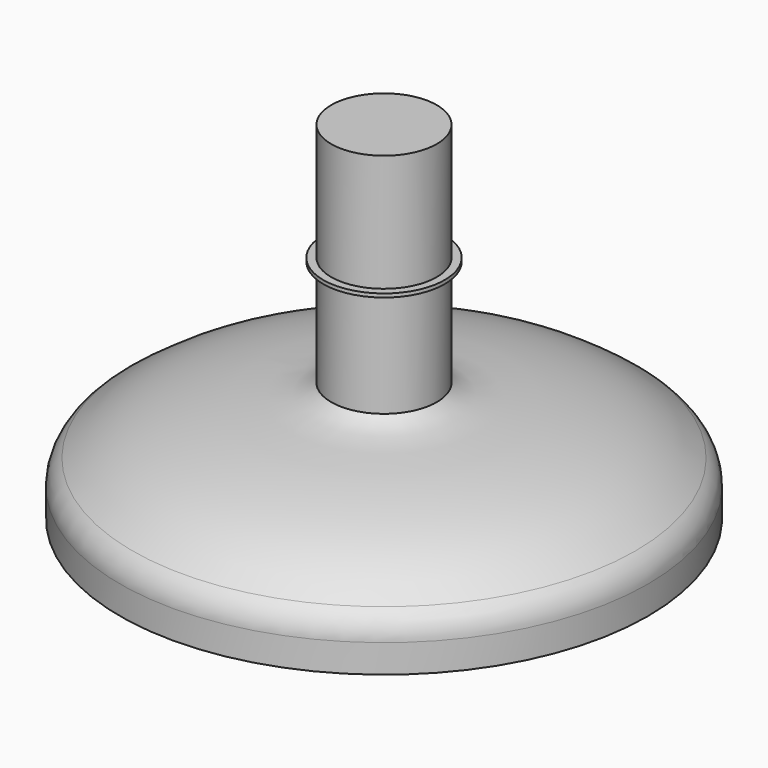
from build123d import *


with BuildPart() as f1:
    # F0 (on Front) → F1 (revolve)
    with BuildSketch(Plane.XZ):
        with BuildLine():
            Line((0, -17.3999276688), (0, 15.457372818))
            Line((0, 15.457372818), (-5, 15.457372818))
            Line((-5, 15.457372818), (-5, 4.3636227492))
            Line((-5, 4.3636227492), (-5.7480330579, 4.3636227492))
            Line((-5.7480330579, 4.3636227492), (-5.7480330579, 4.02151444))
            Line((-5.7480330579, 4.02151444), (-5, 4.02151444))
            Line((-5, 4.02151444), (-5, -6.0624405742))
            add(Edge.make_bspline(
                [(-23.8238037978, -12.343468626), (-22.5280684061, -11.351358841), (-18.9122048038, -8.9005514184), (-10.2028315843, -7.3167438176), (-6.1431308277, -7.1977279149), (-5, -6.0624405742)],
                knots=[0.0767983753, 0.0767983753, 0.0767983753, 0.0767983753, 0.3252388879, 0.7138418386, 1, 1, 1, 1], degree=3))
            ThreePointArc((-23.8238037978, -12.343468626), (-24.6899267084, -13.3971625347), (-25, -14.7254299412))
            Line((-25, -14.7254299412), (-25, -17.3999276688))
            Line((-25, -17.3999276688), (0, -17.3999276688))
        make_face()
    revolve(axis=Axis((0, 0, -0.9712774254), (0, 0, -1)))


solid = f1.part
